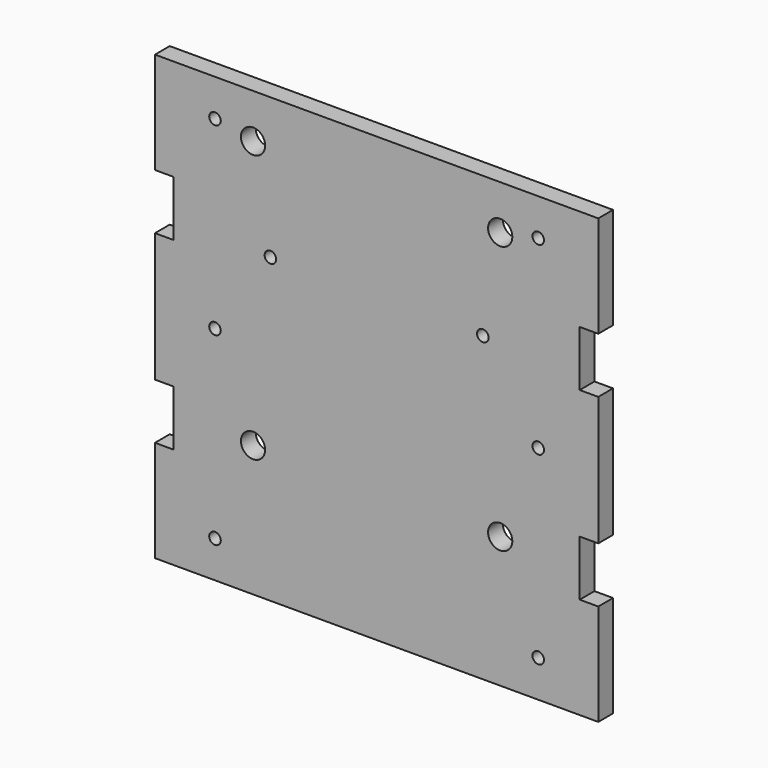
from build123d import *

# Parameters (mm, degrees)
F1_DEPTH = 12.7
F2_D     = 16.66748
F2_DEPTH = 12.7
F2_TIP   = 5.0074161752
F3_D     = 7.9375
F3_DEPTH = 17.4625
F3_TIP   = 2.3846655818


with BuildPart() as f1:
    # F0 (on Front) → F1 (new body)
    with BuildSketch(Plane.XZ):
        Polygon((177.8, 0), (482.6, 0), (482.6, 69.85), (469.8492, 69.85), (469.8492, 108.0516), (482.6, 108.0516), (482.6, 196.7484), (469.8492, 196.7484), (469.8492, 234.95), (482.6, 234.95), (482.6, 304.8), (177.8, 304.8), (177.8, 234.95), (190.5508, 234.95), (190.5508, 196.7484), (177.8, 196.7484), (177.8, 108.0516), (190.5508, 108.0516), (190.5508, 69.85), (177.8, 69.85), align=None)
    extrude(amount=F1_DEPTH)

    # F2
    with Locations(Plane(origin=(0, 0, 0), x_dir=(1, 0, 0), z_dir=(0, 1, 0))):
        with Locations((245.237, -274.32), (415.163, -274.32), (415.163, -90.17), (245.237, -90.17)):
            Hole(F2_D / 2, depth=F2_DEPTH)
            with Locations((0, 0, -(F2_DEPTH + F2_TIP / 2))):  # 118° drill point
                Cone(0, F2_D / 2, F2_TIP, mode=Mode.SUBTRACT)

    # F3
    with Locations(Plane(origin=(0, 0, 0), x_dir=(1, 0, 0), z_dir=(0, 1, 0))):
        with Locations((219.075, -279.4), (257.175, -207.9625), (219.075, -152.4), (403.225, -207.9625), (441.325, -279.4), (441.325, -152.4), (441.325, -25.4), (219.075, -25.4)):
            Hole(F3_D / 2, depth=F3_DEPTH)
            with Locations((0, 0, -(F3_DEPTH + F3_TIP / 2))):  # 118° drill point
                Cone(0, F3_D / 2, F3_TIP, mode=Mode.SUBTRACT)


solid = f1.part
